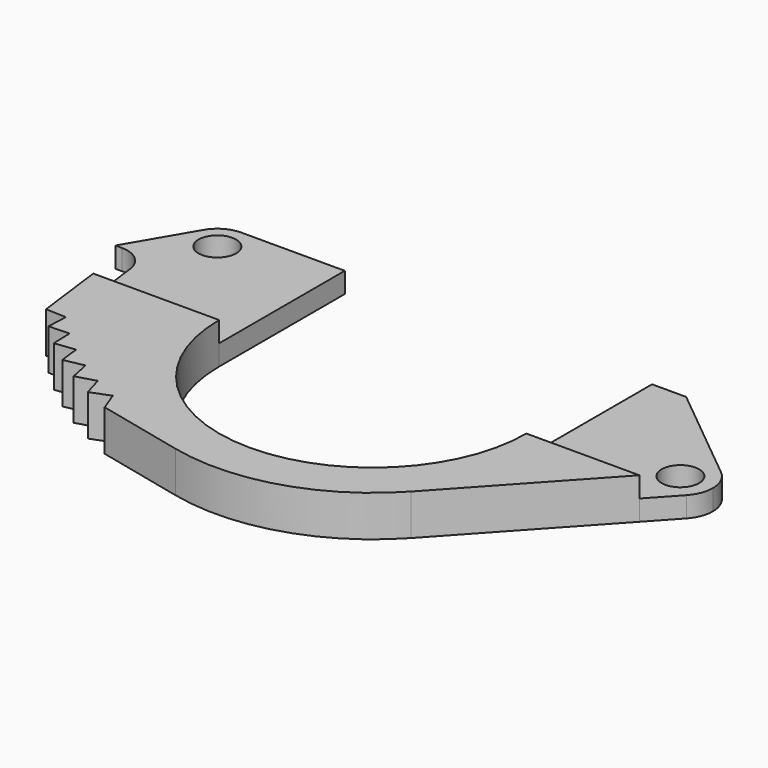
from build123d import *

# Parameters (mm, degrees)
F0_W     = 6.25
F0_H     = 23
F0_R     = 2.75
F1_DEPTH = 3
F2_DEPTH = 6


with BuildPart() as f1:
    # F0 (on Top) → F1 (new body)
    with BuildSketch(Plane.XY):
        with BuildLine():
            Line((-40.939551, 0), (-28.75, 0))
            Line((-28.75, 0), (-28.75, 23))
            Line((-28.75, 23), (-37.65, 23))
            ThreePointArc((-37.65, 23), (-34.53873, 21.71127), (-33.25, 18.6))
            ThreePointArc((-33.25, 18.6), (-38.800765, 14.353149), (-41.448064, 20.821421))
            Line((-41.448064, 20.821421), (-45.817967, 13.35))
            Line((-45.817967, 13.35), (-46.9, 11.5))
            Line((-46.9, 11.5), (-45.924144, 11.5))
            ThreePointArc((-45.924144, 11.5), (-43.279881, 10.501311), (-41.956015, 8.003935))
            Line((-41.956015, 8.003935), (-40.939551, 0))
        make_face()
        with Locations((-25.625, 11.5)):
            Rectangle(F0_W, F0_H)
        Polygon((22.5, 23), (22.5, 0), (28.75, 0), (28.75, 21.977351), (27.5, 23), align=None)
        with BuildLine():
            Line((28.75, 21.977351), (28.75, 0))
            Line((28.75, 0), (39.039863, 0))
            Line((39.039863, 0), (42.748027, 4.036543))
            ThreePointArc((42.748027, 4.036543), (34.511981, 6.912841), (42.257741, 10.92641))
            Line((42.257741, 10.92641), (28.75, 21.977351))
        make_face()
        with BuildLine():
            ThreePointArc((44, 7.25), (43.542393, 9.284174), (42.257741, 10.92641))
            ThreePointArc((42.257741, 10.92641), (34.511981, 6.912841), (42.748027, 4.036543))
            ThreePointArc((42.748027, 4.036543), (43.675953, 5.525635), (44, 7.25))
        make_face()
        with Locations((39.25, 7.25)):
            Circle(F0_R, mode=Mode.SUBTRACT)
        with BuildLine():
            ThreePointArc((-33.25, 18.6), (-34.53873, 21.71127), (-37.65, 23))
            ThreePointArc((-37.65, 23), (-39.839263, 22.416691), (-41.448064, 20.821421))
            ThreePointArc((-41.448064, 20.821421), (-38.800765, 14.353149), (-33.25, 18.6))
        make_face()
        with Locations((-37.65, 18.6)):
            Circle(F0_R, mode=Mode.SUBTRACT)
    extrude(amount=F1_DEPTH)


with BuildPart() as f2:
    # F0 (on Top) → F2 (new body)
    with BuildSketch(Plane.XY):
        with BuildLine():
            ThreePointArc((-6.512559, -28.002662), (-22.514424, -17.879128), (-28.75, 0))
            Line((-28.75, 0), (-40.939551, 0))
            Line((-40.939551, 0), (-39.636106, -10.263707))
            Line((-39.636106, -10.263707), (-36.639335, -10.402867))
            Line((-36.639335, -10.402867), (-36.778495, -13.399638))
            Line((-36.778495, -13.399638), (-33.780399, -13.292778))
            Line((-33.780399, -13.292778), (-33.673539, -16.290875))
            Line((-33.673539, -16.290875), (-30.694281, -15.938714))
            Line((-30.694281, -15.938714), (-30.34212, -18.917973))
            Line((-30.34212, -18.917973), (-27.401735, -18.32288))
            Line((-27.401735, -18.32288), (-26.806642, -21.263265))
            Line((-26.806642, -21.263265), (-23.924906, -20.429242))
            Line((-23.924906, -20.429242), (-23.090882, -23.310978))
            Line((-23.090882, -23.310978), (-20.287175, -22.243634))
            Line((-20.287175, -22.243634), (-19.21983, -25.047341))
            Line((-19.21983, -25.047341), (-6.512559, -28.002662))
        make_face()
        with BuildLine():
            ThreePointArc((22.5, 0), (0, -22.5), (-22.5, 0))
            Line((-22.5, 0), (-28.75, 0))
            ThreePointArc((-28.75, 0), (-22.514424, -17.879128), (-6.512559, -28.002662))
            ThreePointArc((-6.512559, -28.002662), (8.486126, -27.46904), (21.172269, -19.449872))
            ThreePointArc((21.172269, -19.449872), (26.788666, -10.436948), (28.75, 0))
            Line((28.75, 0), (22.5, 0))
        make_face()
        with BuildLine():
            Line((39.039863, 0), (28.75, 0))
            ThreePointArc((28.75, 0), (26.788666, -10.436948), (21.172269, -19.449872))
            Line((21.172269, -19.449872), (39.039863, 0))
        make_face()
        with BuildLine():
            ThreePointArc((-6.512559, -28.002662), (-22.514424, -17.879128), (-28.75, 0))
            Line((-28.75, 0), (-40.939551, 0))
            Line((-40.939551, 0), (-39.636106, -10.263707))
            Line((-39.636106, -10.263707), (-36.639335, -10.402867))
            Line((-36.639335, -10.402867), (-36.778495, -13.399638))
            Line((-36.778495, -13.399638), (-33.780399, -13.292778))
            Line((-33.780399, -13.292778), (-33.673539, -16.290875))
            Line((-33.673539, -16.290875), (-30.694281, -15.938714))
            Line((-30.694281, -15.938714), (-30.34212, -18.917973))
            Line((-30.34212, -18.917973), (-27.401735, -18.32288))
            Line((-27.401735, -18.32288), (-26.806642, -21.263265))
            Line((-26.806642, -21.263265), (-23.924906, -20.429242))
            Line((-23.924906, -20.429242), (-23.090882, -23.310978))
            Line((-23.090882, -23.310978), (-20.287175, -22.243634))
            Line((-20.287175, -22.243634), (-19.21983, -25.047341))
            Line((-19.21983, -25.047341), (-6.512559, -28.002662))
        make_face()
    extrude(amount=F2_DEPTH)


solid = Compound([f1.part, f2.part])
